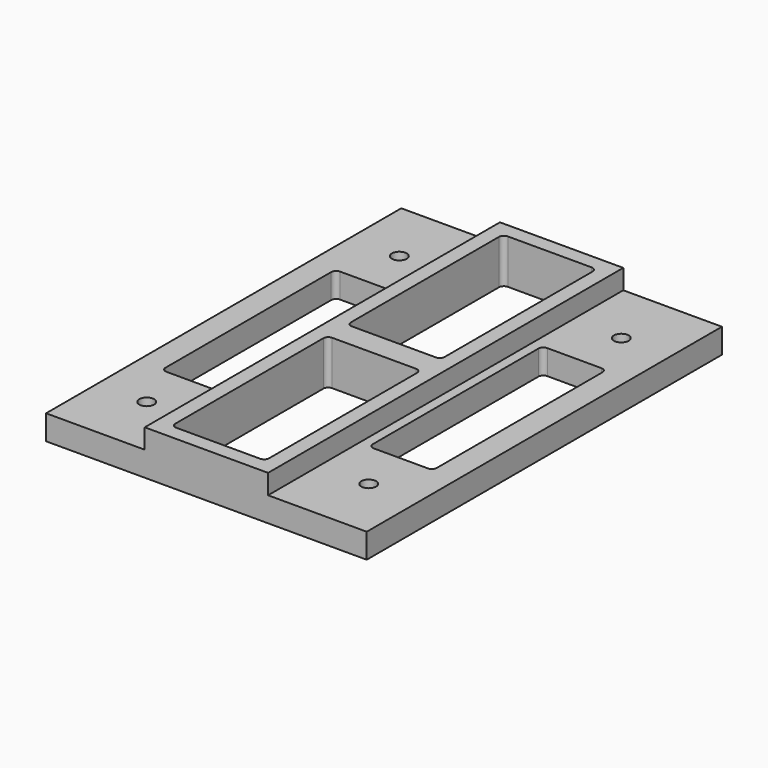
from build123d import *

# Parameters (mm, degrees)
SKETCH_W        = 65
SKETCH_H        = 90
SKETCH_R        = 1.5
PAD_DEPTH       = 5
SKETCH002_W     = 25
SKETCH002_H     = 90
PAD001_DEPTH    = 4
SKETCH003_W     = 19
SKETCH003_H     = 39.5
POCKET_DEPTH    = 9.001
FILLET_R        = 1
FILLET001_R     = 1
FILLET002_R     = 1
FILLET003_R     = 1
SKETCH004_R     = 3
POCKET001_DEPTH = 3
SKETCH005_W     = 13
SKETCH005_H     = 44
POCKET002_DEPTH = 9.001
FILLET004_R     = 1
FILLET005_R     = 1
FILLET006_R     = 1
FILLET007_R     = 1


with BuildPart() as part:
    # Sketch → Pad (new body)
    with BuildSketch(Plane.XY):
        with Locations((32.5, -45)):
            Rectangle(SKETCH_W, SKETCH_H)
        with Locations((10, -13)):
            Circle(SKETCH_R, mode=Mode.SUBTRACT)
        with Locations((10, -77)):
            Circle(SKETCH_R, mode=Mode.SUBTRACT)
        with Locations((55, -13)):
            Circle(SKETCH_R, mode=Mode.SUBTRACT)
        with Locations((55, -77)):
            Circle(SKETCH_R, mode=Mode.SUBTRACT)
    extrude(amount=PAD_DEPTH)

    # Sketch002 → Pad001 (new body)
    with BuildSketch(Plane.XY.offset(5)):
        with Locations((32.5, -45)):
            Rectangle(SKETCH002_W, SKETCH002_H)
    extrude(amount=PAD001_DEPTH)

    # Sketch003 → Pocket (cut, through all)
    with BuildSketch(Plane.XY.offset(9)):
        with Locations((32.5, -22.75)):
            Rectangle(SKETCH003_W, SKETCH003_H)
        with Locations((32.5, -67.25)):
            Rectangle(SKETCH003_W, SKETCH003_H)
    extrude(amount=-POCKET_DEPTH, mode=Mode.SUBTRACT)

    # Fillet
    fillet_edges = [part.edges().sort_by_distance(p)[0] for p in [
        (23, -47.5, 4.5),
        (23, -3, 4.5),
    ]]
    fillet(fillet_edges, radius=FILLET_R)

    # Fillet001
    fillet001_edges = [part.edges().sort_by_distance(p)[0] for p in [
        (42, -3, 4.5),
        (42, -47.5, 4.5),
    ]]
    fillet(fillet001_edges, radius=FILLET001_R)

    # Fillet002
    fillet002_edges = [part.edges().sort_by_distance(p)[0] for p in [
        (42, -42.5, 4.5),
        (42, -87, 4.5),
    ]]
    fillet(fillet002_edges, radius=FILLET002_R)

    # Fillet003
    fillet003_edges = [part.edges().sort_by_distance(p)[0] for p in [
        (23, -42.5, 4.5),
        (23, -87, 4.5),
    ]]
    fillet(fillet003_edges, radius=FILLET003_R)

    # Sketch004 → Pocket001 (cut)
    with BuildSketch(Plane(origin=(0, 0, 0), x_dir=(1, 0, 0), z_dir=(0, 0, -1))):
        with Locations((10, 77)):
            Circle(SKETCH004_R)
        with Locations((55, 77)):
            Circle(SKETCH004_R)
        with Locations((55, 13)):
            Circle(SKETCH004_R)
        with Locations((10, 13)):
            Circle(SKETCH004_R)
    extrude(amount=-POCKET001_DEPTH, mode=Mode.SUBTRACT)

    # Sketch005 → Pocket002 (cut, through all)
    with BuildSketch(Plane(origin=(0, 0, 0), x_dir=(1, 0, 0), z_dir=(0, 0, -1))):
        with Locations((11.5, 45)):
            Rectangle(SKETCH005_W, SKETCH005_H)
        with Locations((53.5, 45)):
            Rectangle(SKETCH005_W, SKETCH005_H)
    extrude(amount=-POCKET002_DEPTH, mode=Mode.SUBTRACT)

    # Fillet004
    fillet004_edges = [part.edges().sort_by_distance(p)[0] for p in [
        (5, -23, 2.5),
        (47, -23, 2.5),
    ]]
    fillet(fillet004_edges, radius=FILLET004_R)

    # Fillet005
    fillet005_edges = [part.edges().sort_by_distance(p)[0] for p in [
        (5, -67, 2.5),
        (47, -67, 2.5),
    ]]
    fillet(fillet005_edges, radius=FILLET005_R)

    # Fillet006
    fillet006_edges = [part.edges().sort_by_distance(p)[0] for p in [
        (18, -67, 2.5),
        (60, -67, 2.5),
    ]]
    fillet(fillet006_edges, radius=FILLET006_R)

    # Fillet007
    fillet007_edges = [part.edges().sort_by_distance(p)[0] for p in [
        (18, -23, 2.5),
        (60, -23, 2.5),
    ]]
    fillet(fillet007_edges, radius=FILLET007_R)


solid = part.part
